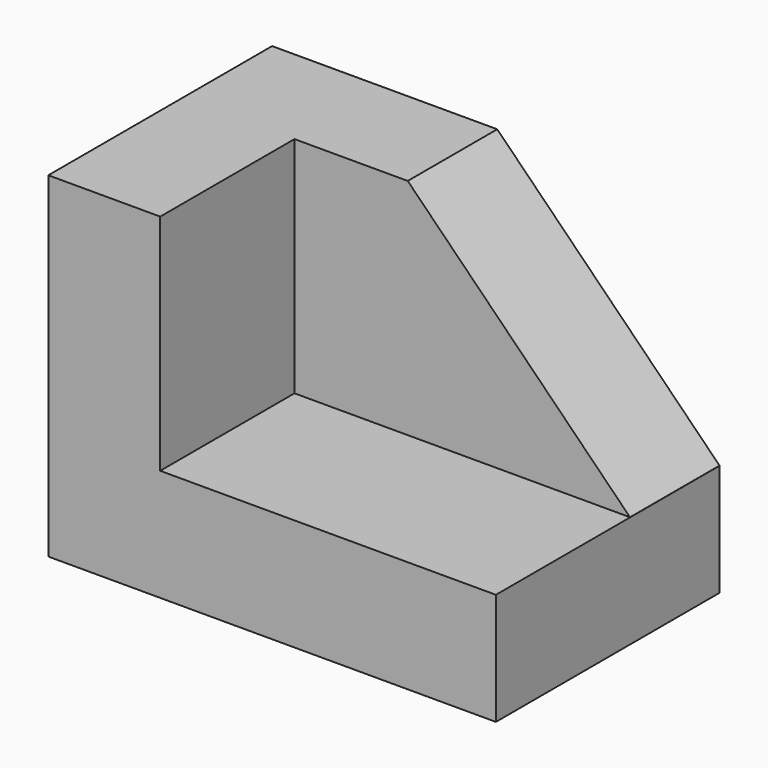
from build123d import *

# Parameters (mm, degrees)
F0_W     = 101.6
F0_H     = 25.4
F1_DEPTH = 63.5
F2_W     = 25.4
F2_H     = 63.5
F3_DEPTH = 50.8
F4_W     = 25.709516
F4_H     = 25.4
F5_DEPTH = 50.8
F7_DEPTH = 25.4


with BuildPart() as f1:
    # F0 (on Front) → F1 (new body)
    with BuildSketch(Plane.XZ):
        with Locations((-0.309516, 3.400826)):
            Rectangle(F0_W, F0_H)
    extrude(amount=F1_DEPTH)

    # F2 (on face) → F3 (join)
    with BuildSketch(Plane.XY.offset(16.100826)):
        with Locations((-38.409516, -31.75)):
            Rectangle(F2_W, F2_H)
    extrude(amount=F3_DEPTH)

    # F4 (on face) → F5 (join)
    with BuildSketch(Plane.XY.offset(16.100826)):
        with Locations((-12.854758, -12.7)):
            Rectangle(F4_W, F4_H)
    extrude(amount=F5_DEPTH)

    # F6 (on face) → F7 (join)
    with BuildSketch(Plane.XZ.offset(25.4)):
        Polygon((50.451178, 16.100826), (0, 66.900826), (0, 16.100826), align=None)
    extrude(amount=-F7_DEPTH)


solid = f1.part
